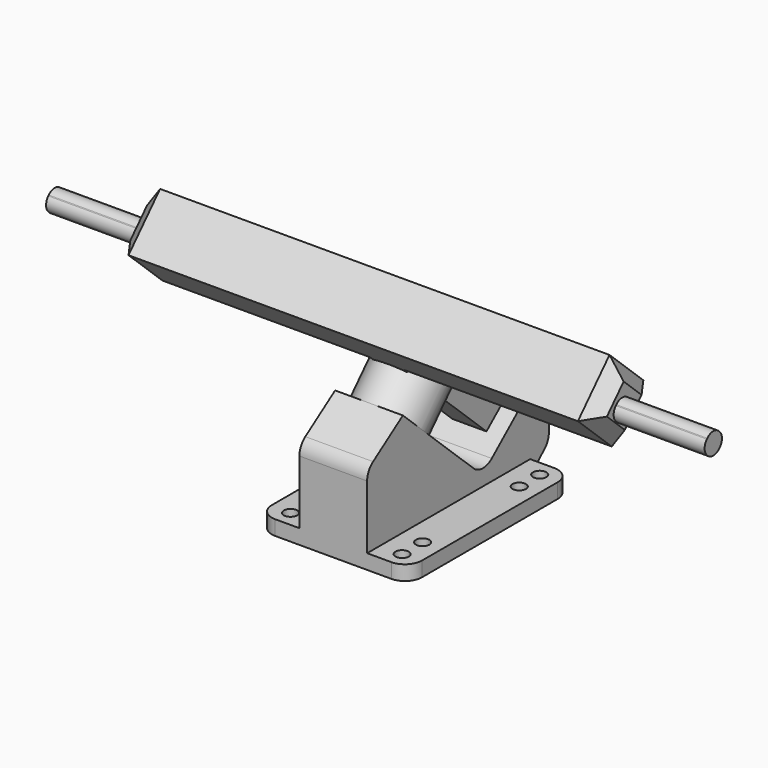
from build123d import *

# Parameters (mm, degrees)
F0_R      = 2.49555
F1_DEPTH  = 5.4991
F3_DEPTH  = 12.6365
F4_R      = 12.7
F5_DEPTH  = 36.195
F8_DEPTH  = 21.59
F7_W      = 33.9344
F7_H      = 7.9375
F9_DEPTH  = 13.4493
F10_DEPTH = 5.5118
F11_SIZE  = 5.08
F12_R     = 3.81


with BuildPart() as f1:
    # F0 (on Top) → F1 (new body)
    with BuildSketch(Plane.XY):
        with BuildLine():
            Line((21.6535, 38.00475), (-21.6535, 38.00475))
            ThreePointArc((-21.6535, 38.00475), (-26.1436280605, 36.1448780605), (-28.0035, 31.65475))
            Line((-28.0035, 31.65475), (-28.0035, -31.65475))
            ThreePointArc((-28.0035, -31.65475), (-26.1436280605, -36.1448780605), (-21.6535, -38.00475))
            Line((-21.6535, -38.00475), (21.6535, -38.00475))
            ThreePointArc((21.6535, -38.00475), (26.1436280605, -36.1448780605), (28.0035, -31.65475))
            Line((28.0035, -31.65475), (28.0035, 31.65475))
            ThreePointArc((28.0035, 31.65475), (26.1436280605, 36.1448780605), (21.6535, 38.00475))
        make_face()
        with Locations((-20.68195, -32.0802)):
            Circle(F0_R, mode=Mode.SUBTRACT)
        with Locations((-20.68195, -22.5171)):
            Circle(F0_R, mode=Mode.SUBTRACT)
        with Locations((20.94865, -32.0802)):
            Circle(F0_R, mode=Mode.SUBTRACT)
        with Locations((20.94865, -22.5171)):
            Circle(F0_R, mode=Mode.SUBTRACT)
        with Locations((-20.68195, 22.5171)):
            Circle(F0_R, mode=Mode.SUBTRACT)
        with Locations((-20.68195, 32.0802)):
            Circle(F0_R, mode=Mode.SUBTRACT)
        with Locations((20.94865, 22.5171)):
            Circle(F0_R, mode=Mode.SUBTRACT)
        with Locations((20.94865, 32.0802)):
            Circle(F0_R, mode=Mode.SUBTRACT)
    extrude(amount=F1_DEPTH)

    # F2 (on Right) → F3 (join, symmetric)
    with BuildSketch(Plane.YZ):
        with BuildLine():
            Line((-38.00475, 0), (38.00475, 0))
            Line((38.00475, 0), (44.6684117025, 6.0475273605))
            ThreePointArc((44.6684117025, 6.0475273605), (46.2070110218, 8.1783938925), (46.7509385842, 10.7497792875))
            Line((46.7509385842, 10.7497792875), (46.7509385842, 15.6225843746))
            ThreePointArc((46.7509385842, 15.6225843746), (45.8705955509, 18.8483172628), (43.4736621539, 21.1796402376))
            Line((43.4736621539, 21.1796402376), (35.0811212719, 25.8202194964))
            Line((35.0811212719, 25.8202194964), (20.0922738228, 12.9981952029))
            ThreePointArc((20.0922738228, 12.9981952029), (15.826745806, 11.4750322558), (11.6312994892, 13.1817791111))
            Line((11.6312994892, 13.1817791111), (-21.3543212783, 43.9746556756))
            Line((-21.3543212783, 43.9746556756), (-35.2473775709, 34.4420485715))
            ThreePointArc((-35.2473775709, 34.4420485715), (-37.2732767231, 32.1648917383), (-38.00475, 29.2060646967))
            Line((-38.00475, 29.2060646967), (-38.00475, 0))
        make_face()
    extrude(amount=F3_DEPTH, both=True)

    # F4 (on face) → F5 (join)
    with BuildSketch(Plane(origin=(0, 11.9915573283, 12.8454696856), x_dir=(1, 0, 0), z_dir=(0, 0.6823928283, 0.7309856551))):
        with Locations((0, -32.9176921867)):
            Circle(F4_R)
    extrude(amount=F5_DEPTH)

    # F7 (on offset) → F8 (join)
    with BuildSketch(Plane(origin=(0, 20.6579462472, 22.1289875052), x_dir=(1, 0, 0), z_dir=(0, 0.6823928283, 0.7309856551))):
        Polygon((6.35, 5.7192138057), (6.35, 8.0242638057), (-6.35, 8.0242638057), (-6.35, 5.7192138057), (-6.35, -45.9507361943), (-57.15, -45.9507361943), (-88.9, -45.9507361943), (-88.9, -52.7769861943), (-88.9, -60.7144861943), (-88.9, -67.5407361943), (0, -67.5407361943), (88.9, -67.5407361943), (88.9, -60.7144861943), (88.9, -52.7769861943), (88.9, -45.9507361943), (57.15, -45.9507361943), (6.35, -45.9507361943), align=None)
    extrude(amount=F8_DEPTH)

    # F7 (on offset) → F9 (join)
    with BuildSketch(Plane(origin=(0, 20.6579462472, 22.1289875052), x_dir=(1, 0, 0), z_dir=(0, 0.6823928283, 0.7309856551))):
        with Locations((105.8672, -56.7457361943)):
            Rectangle(F7_W, F7_H)
        with Locations((-105.8672, -56.7457361943)):
            Rectangle(F7_W, F7_H)
    extrude(amount=F9_DEPTH)

    # F7 (on offset) → F10 (cut)
    with BuildSketch(Plane(origin=(0, 20.6579462472, 22.1289875052), x_dir=(1, 0, 0), z_dir=(0, 0.6823928283, 0.7309856551))):
        with Locations((105.8672, -56.7457361943)):
            Rectangle(F7_W, F7_H)
        with Locations((-105.8672, -56.7457361943)):
            Rectangle(F7_W, F7_H)
    extrude(amount=F10_DEPTH, mode=Mode.SUBTRACT)

    # F11
    f11_edges = [f1.edges().sort_by_distance(p)[0] for p in [
        (88.9, -21.346932, 76.109292),
        (88.9, -6.089512, 76.633851),
        (88.9, -5.564952, 61.37643),
        (88.9, -20.822373, 60.851871),
        (-88.9, -6.089512, 76.633851),
        (-88.9, -21.346932, 76.109292),
        (-88.9, -5.564952, 61.37643),
        (-88.9, -20.822373, 60.851871),
    ]]
    chamfer(f11_edges, length=F11_SIZE)

    # F12
    f12_edges = [f1.edges().sort_by_distance(p)[0] for p in [
        (105.8672, -14.545766, 73.391363),
        (105.8672, -19.962259, 67.589164),
        (105.8672, -14.160061, 62.172671),
        (105.8672, -8.743568, 67.97487),
        (-105.8672, -19.962259, 67.589164),
        (-105.8672, -14.545766, 73.391363),
        (-105.8672, -8.743568, 67.97487),
        (-105.8672, -14.160061, 62.172671),
    ]]
    fillet(f12_edges, radius=F12_R)


solid = f1.part
